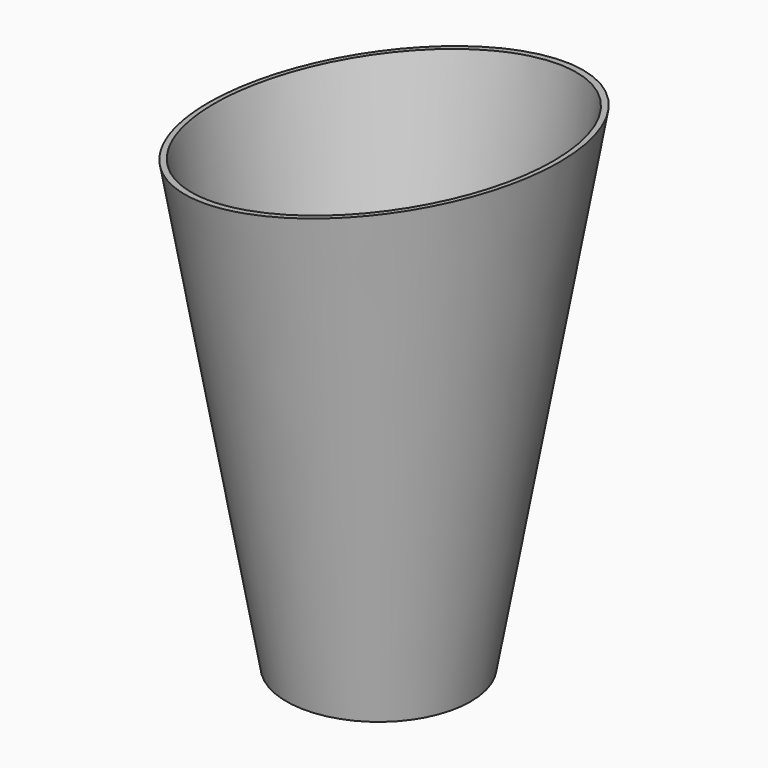
from build123d import *

# Parameters (mm, degrees)
BOX001_W           = 200
BOX001_H           = 199
BOX001_DEPTH       = 200
BOX001_PITCH_ANGLE = -10


with BuildPart() as cube001:
    # Box001 → Box001 (new body)
    with BuildSketch(Plane.XY):
        with Locations((100, 99.5)):
            Rectangle(BOX001_W, BOX001_H)
    extrude(amount=BOX001_DEPTH)


with BuildPart() as cube001_1:
    # Box001 pitch: moved
    add(cube001.part.rotate(Axis((0, 0, 0), (0, 1, 0)), BOX001_PITCH_ANGLE))


with BuildPart() as cube001_2:
    # Box001 placement: moved
    add(cube001_1.part.moved(Location((-95, -94, 142))))


with BuildPart() as center_shade_62mm_base:
    # Sketch001 → Revolution001 (revolve)
    with BuildSketch(Plane.XZ):
        Polygon((31, 0), (60.975587, 170), (58.975587, 170), (29, 0), align=None)
    revolve(axis=Axis((0, 0, 0), (0, 0, 1)))

    # Cut001: cut Cube001
    add(cube001_2.part, mode=Mode.SUBTRACT)


solid = center_shade_62mm_base.part
